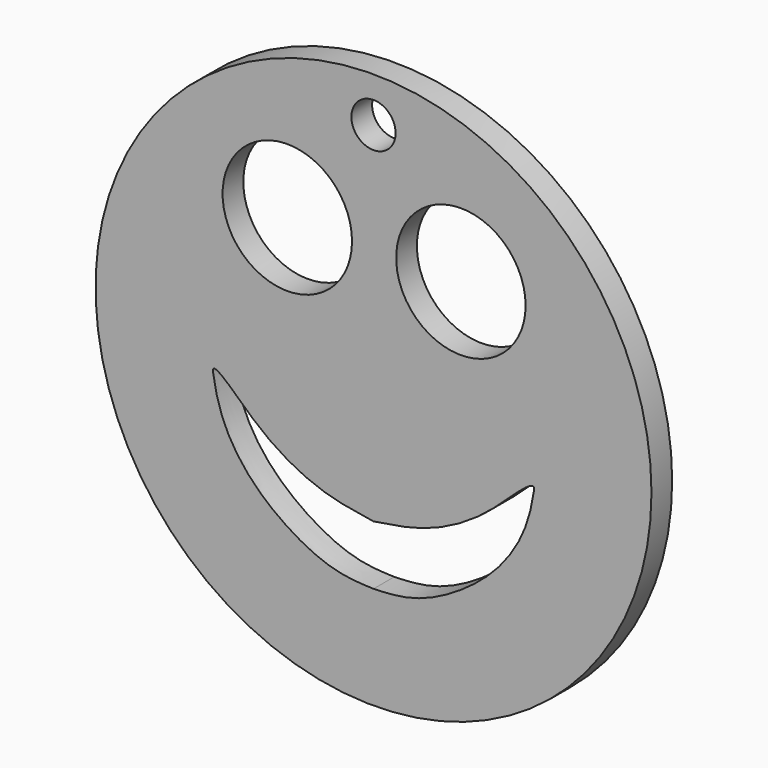
from build123d import *

# Parameters (mm, degrees)
F0_R     = 53.6921565225
F0_R_2   = 12.5
F0_R_3   = 4.270381187
F1_DEPTH = 5


with BuildPart() as f1:
    # F0 (on Front) → F1 (new body)
    with BuildSketch(Plane.XZ):
        Circle(F0_R)
        with BuildLine():
            add(Edge.make_bspline(
                [(0, -22.3555639386), (-3.4672349192, -21.8412608715), (-10.7402954778, -20.7624307836), (-21.6944969017, -14.6426323073), (-28.6153777814, -7.2320609926), (-31.1923831294, -5.974154894), (-30.8301774573, -8.1833405456), (-29.6371366782, -14.5563174316), (-23.3870227217, -24.7632910904), (-9.52251868, -33.4737742331), (-2.8707615075, -33.7115684522), (0, -33.8141955435)],
                knots=[0, 0, 0, 0, 0.1280205342, 0.2685428359, 0.3935400324, 0.4447673453, 0.4902368426, 0.5882737011, 0.7247873105, 0.8812238669, 1, 1, 1, 1], degree=3))
            add(Edge.make_bspline(
                [(0, -22.3555639386), (3.4672349192, -21.8412608715), (10.7402954778, -20.7624307836), (21.6944969017, -14.6426323073), (28.6153777814, -7.2320609926), (31.1923831294, -5.974154894), (30.8301774573, -8.1833405456), (29.6371366782, -14.5563174316), (23.3870227217, -24.7632910904), (9.52251868, -33.4737742331), (2.8707615075, -33.7115684522), (0, -33.8141955435)],
                knots=[0, 0, 0, 0, 0.1280205342, 0.2685428359, 0.3935400324, 0.4447673453, 0.4902368426, 0.5882737011, 0.7247873105, 0.8812238669, 1, 1, 1, 1], degree=3))
        make_face(mode=Mode.SUBTRACT)
        with Locations((-16.652330115, 23.902322901)):
            Circle(F0_R_2, mode=Mode.SUBTRACT)
        with Locations((16.8788930939, 23.902322901)):
            Circle(F0_R_2, mode=Mode.SUBTRACT)
        with Locations((0, 45.04814744)):
            Circle(F0_R_3, mode=Mode.SUBTRACT)
    extrude(amount=F1_DEPTH)


solid = f1.part
